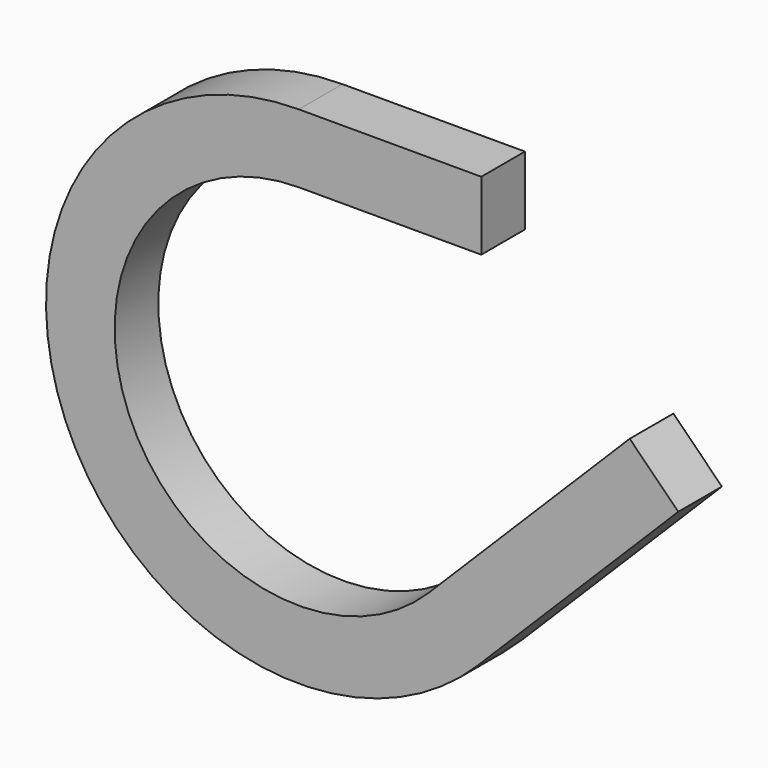
from build123d import *

# Parameters (mm, degrees)
F2_W = 75.9541615844
F2_H = 95.5551862717


with BuildPart() as f3:
    # F3: sweep along a path in F0
    with BuildLine(Plane.XZ) as f3_path:
        Line((254, 304.8), (0, 304.8))
        ThreePointArc((0, 304.8), (-281.5984815094, -116.6419101849), (215.5261469057, -215.5261469057))
        Line((215.5261469057, -215.5261469057), (494.9261469057, 63.8738530943))
    # F2 (on line) → F3 (sweep)
    with BuildSketch(Plane.YZ.offset(254)):
        with Locations((0, 304.187476635)):
            Rectangle(F2_W, F2_H)
    sweep(path=f3_path.line)


solid = f3.part
